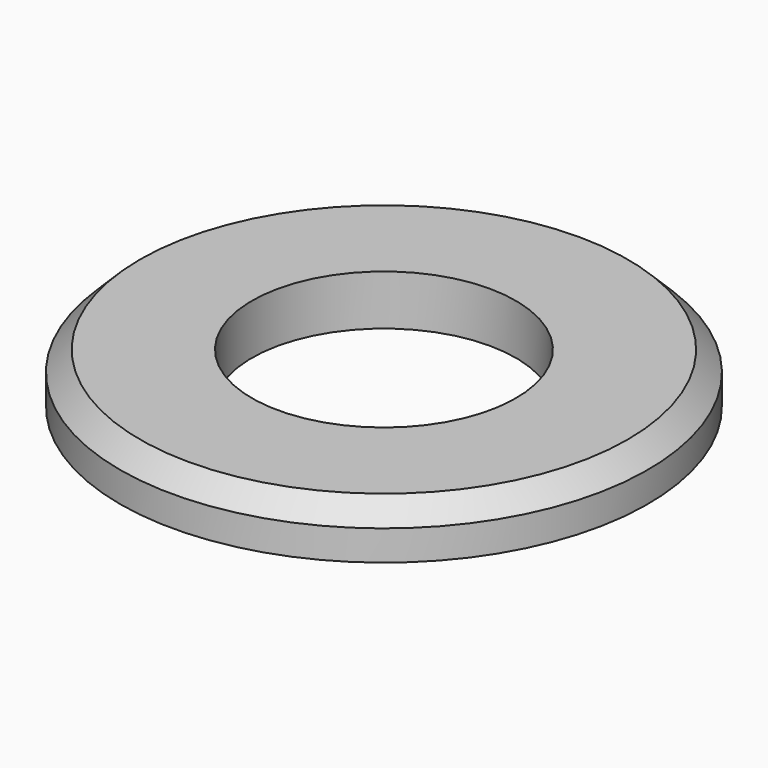
from build123d import *


with BuildPart() as part:
    # Sketch → Revolution (revolve)
    with BuildSketch(Plane.YZ):
        Polygon((5.25, 0), (10.5, 0), (10.5, 1.2), (9.7, 2), (5.25, 2), align=None)
    revolve(axis=Axis((0, 0, 0), (0, 0, 1)))


solid = part.part
